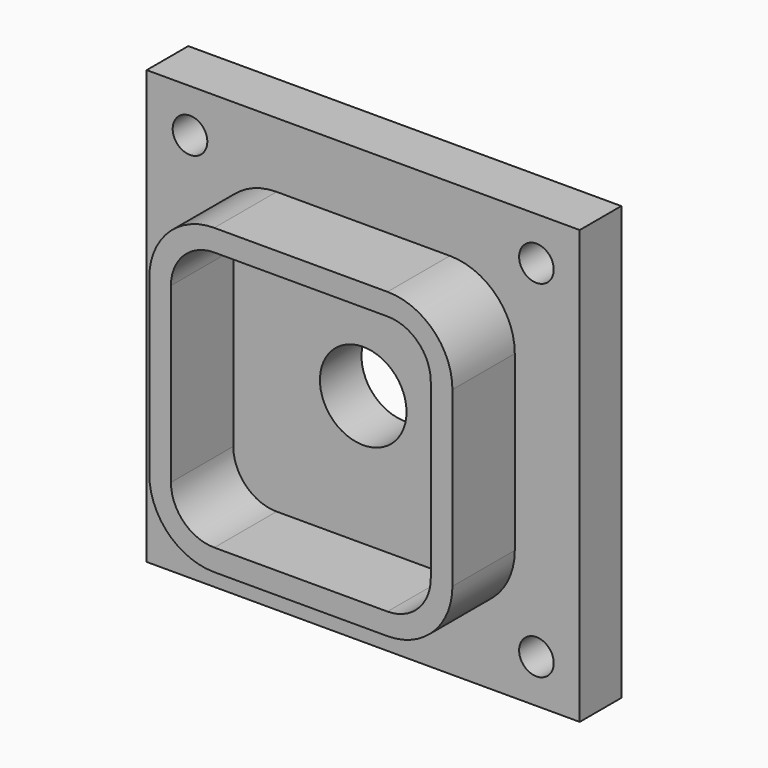
from build123d import *

# Parameters (mm, degrees)
F0_W     = 100
F0_H     = 100
F0_R     = 4
F1_DEPTH = 12
F3_DEPTH = 18
F4_R     = 10
F5_DEPTH = 12


with BuildPart() as f1:
    # F0 (on Front) → F1 (new body)
    with BuildSketch(Plane.XZ):
        Rectangle(F0_W, F0_H)
        with Locations((-40, -40)):
            Circle(F0_R, mode=Mode.SUBTRACT)
        with Locations((40, -40)):
            Circle(F0_R, mode=Mode.SUBTRACT)
        with Locations((-40, 40)):
            Circle(F0_R, mode=Mode.SUBTRACT)
        with Locations((40, 40)):
            Circle(F0_R, mode=Mode.SUBTRACT)
    extrude(amount=F1_DEPTH)

    # F2 (on face) → F3 (join)
    with BuildSketch(Plane.XZ.offset(12)):
        with BuildLine():
            Line((-20, -35), (20, -35))
            ThreePointArc((20, -35), (30.606602, -30.606602), (35, -20))
            Line((35, -20), (35, 20))
            ThreePointArc((35, 20), (30.606602, 30.606602), (20, 35))
            Line((20, 35), (-20, 35))
            ThreePointArc((-20, 35), (-30.606602, 30.606602), (-35, 20))
            Line((-35, 20), (-35, -20))
            ThreePointArc((-35, -20), (-30.606602, -30.606602), (-20, -35))
        make_face()
        with BuildLine():
            ThreePointArc((30, -20), (27.071068, -27.071068), (20, -30))
            Line((20, -30), (-20, -30))
            ThreePointArc((-20, -30), (-27.071068, -27.071068), (-30, -20))
            Line((-30, -20), (-30, 20))
            ThreePointArc((-30, 20), (-27.071068, 27.071068), (-20, 30))
            Line((-20, 30), (20, 30))
            ThreePointArc((20, 30), (27.071068, 27.071068), (30, 20))
            Line((30, 20), (30, -20))
        make_face(mode=Mode.SUBTRACT)
    extrude(amount=F3_DEPTH)

    # F4 (on face) → F5 (cut)
    with BuildSketch(Plane.XZ.offset(12)):
        Circle(F4_R)
    extrude(amount=-F5_DEPTH, mode=Mode.SUBTRACT)


solid = f1.part
